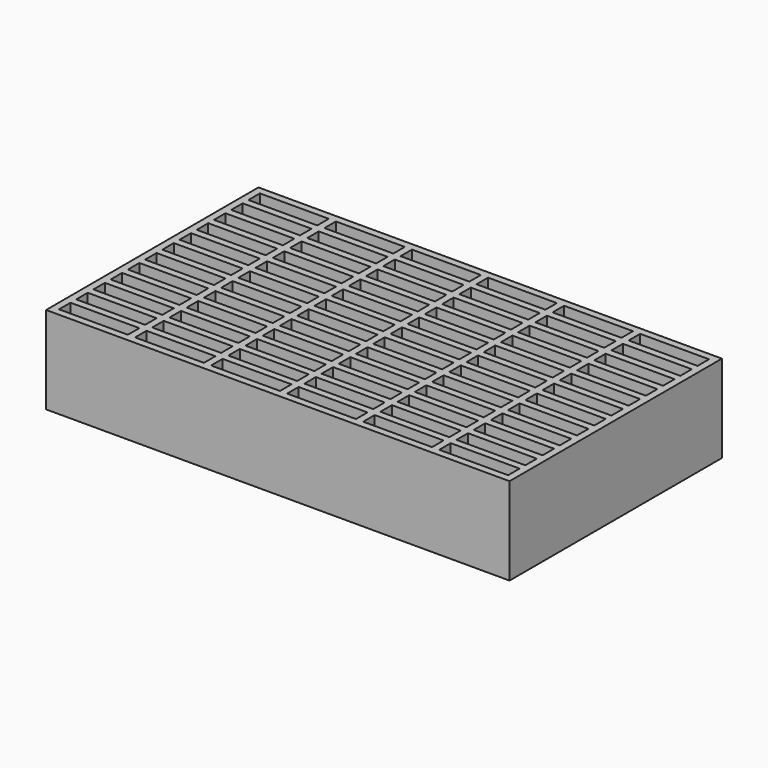
from build123d import *

# Parameters (mm, degrees)
F0_W     = 205.105
F0_H     = 117.475
F1_DEPTH = 38.735
F2_W     = 30.48
F2_H     = 6.35
F3_DEPTH = 35.56


with BuildPart() as f1:
    # F0 (on Top) → F1 (new body)
    with BuildSketch(Plane.XY):
        Rectangle(F0_W, F0_H)
    extrude(amount=-F1_DEPTH)

    # F2 (on face) → F3 (cut)
    with BuildSketch(Plane.XY):
        with Locations((-84.1375, 52.3875)):
            Rectangle(F2_W, F2_H)
        with Locations((-84.1375, 42.8625)):
            Rectangle(F2_W, F2_H)
        with Locations((-84.1375, 33.3375)):
            Rectangle(F2_W, F2_H)
        with Locations((-84.1375, 23.8125)):
            Rectangle(F2_W, F2_H)
        with Locations((-84.1375, 14.2875)):
            Rectangle(F2_W, F2_H)
        with Locations((-84.1375, 4.7625)):
            Rectangle(F2_W, F2_H)
        with Locations((-84.1375, -4.7625)):
            Rectangle(F2_W, F2_H)
        with Locations((-84.1375, -14.2875)):
            Rectangle(F2_W, F2_H)
        with Locations((-50.4825, 52.3875)):
            Rectangle(F2_W, F2_H)
        with Locations((-50.4825, 42.8625)):
            Rectangle(F2_W, F2_H)
        with Locations((-50.4825, 33.3375)):
            Rectangle(F2_W, F2_H)
        with Locations((-50.4825, 23.8125)):
            Rectangle(F2_W, F2_H)
        with Locations((-50.4825, 14.2875)):
            Rectangle(F2_W, F2_H)
        with Locations((-50.4825, 4.7625)):
            Rectangle(F2_W, F2_H)
        with Locations((-50.4825, -4.7625)):
            Rectangle(F2_W, F2_H)
        with Locations((-50.4825, -14.2875)):
            Rectangle(F2_W, F2_H)
        with Locations((-16.8275, 52.3875)):
            Rectangle(F2_W, F2_H)
        with Locations((-16.8275, 42.8625)):
            Rectangle(F2_W, F2_H)
        with Locations((-16.8275, 33.3375)):
            Rectangle(F2_W, F2_H)
        with Locations((-16.8275, 23.8125)):
            Rectangle(F2_W, F2_H)
        with Locations((-16.8275, 14.2875)):
            Rectangle(F2_W, F2_H)
        with Locations((-16.8275, 4.7625)):
            Rectangle(F2_W, F2_H)
        with Locations((-16.8275, -4.7625)):
            Rectangle(F2_W, F2_H)
        with Locations((-16.8275, -14.2875)):
            Rectangle(F2_W, F2_H)
        with Locations((16.8275, 52.3875)):
            Rectangle(F2_W, F2_H)
        with Locations((16.8275, 42.8625)):
            Rectangle(F2_W, F2_H)
        with Locations((16.8275, 33.3375)):
            Rectangle(F2_W, F2_H)
        with Locations((16.8275, 23.8125)):
            Rectangle(F2_W, F2_H)
        with Locations((16.8275, 14.2875)):
            Rectangle(F2_W, F2_H)
        with Locations((16.8275, 4.7625)):
            Rectangle(F2_W, F2_H)
        with Locations((16.8275, -4.7625)):
            Rectangle(F2_W, F2_H)
        with Locations((16.8275, -14.2875)):
            Rectangle(F2_W, F2_H)
        with Locations((50.4825, 52.3875)):
            Rectangle(F2_W, F2_H)
        with Locations((50.4825, 42.8625)):
            Rectangle(F2_W, F2_H)
        with Locations((50.4825, 33.3375)):
            Rectangle(F2_W, F2_H)
        with Locations((50.4825, 23.8125)):
            Rectangle(F2_W, F2_H)
        with Locations((50.4825, 14.2875)):
            Rectangle(F2_W, F2_H)
        with Locations((50.4825, 4.7625)):
            Rectangle(F2_W, F2_H)
        with Locations((50.4825, -4.7625)):
            Rectangle(F2_W, F2_H)
        with Locations((50.4825, -14.2875)):
            Rectangle(F2_W, F2_H)
        with Locations((84.1375, 52.3875)):
            Rectangle(F2_W, F2_H)
        with Locations((84.1375, 42.8625)):
            Rectangle(F2_W, F2_H)
        with Locations((84.1375, 33.3375)):
            Rectangle(F2_W, F2_H)
        with Locations((84.1375, 23.8125)):
            Rectangle(F2_W, F2_H)
        with Locations((84.1375, 14.2875)):
            Rectangle(F2_W, F2_H)
        with Locations((84.1375, 4.7625)):
            Rectangle(F2_W, F2_H)
        with Locations((84.1375, -4.7625)):
            Rectangle(F2_W, F2_H)
        with Locations((84.1375, -14.2875)):
            Rectangle(F2_W, F2_H)
        with Locations((-84.1375, -23.8125)):
            Rectangle(F2_W, F2_H)
        with Locations((-50.4825, -23.8125)):
            Rectangle(F2_W, F2_H)
        with Locations((-16.8275, -23.8125)):
            Rectangle(F2_W, F2_H)
        with Locations((16.8275, -23.8125)):
            Rectangle(F2_W, F2_H)
        with Locations((50.4825, -23.8125)):
            Rectangle(F2_W, F2_H)
        with Locations((84.1375, -23.8125)):
            Rectangle(F2_W, F2_H)
        with Locations((-84.1375, -33.3375)):
            Rectangle(F2_W, F2_H)
        with Locations((-50.4825, -33.3375)):
            Rectangle(F2_W, F2_H)
        with Locations((-16.8275, -33.3375)):
            Rectangle(F2_W, F2_H)
        with Locations((16.8275, -33.3375)):
            Rectangle(F2_W, F2_H)
        with Locations((50.4825, -33.3375)):
            Rectangle(F2_W, F2_H)
        with Locations((84.1375, -33.3375)):
            Rectangle(F2_W, F2_H)
        with Locations((-84.1375, -42.8625)):
            Rectangle(F2_W, F2_H)
        with Locations((-84.1375, -52.3875)):
            Rectangle(F2_W, F2_H)
        with Locations((-50.4825, -42.8625)):
            Rectangle(F2_W, F2_H)
        with Locations((-50.4825, -52.3875)):
            Rectangle(F2_W, F2_H)
        with Locations((-16.8275, -42.8625)):
            Rectangle(F2_W, F2_H)
        with Locations((-16.8275, -52.3875)):
            Rectangle(F2_W, F2_H)
        with Locations((16.8275, -42.8625)):
            Rectangle(F2_W, F2_H)
        with Locations((16.8275, -52.3875)):
            Rectangle(F2_W, F2_H)
        with Locations((50.4825, -42.8625)):
            Rectangle(F2_W, F2_H)
        with Locations((50.4825, -52.3875)):
            Rectangle(F2_W, F2_H)
        with Locations((84.1375, -42.8625)):
            Rectangle(F2_W, F2_H)
        with Locations((84.1375, -52.3875)):
            Rectangle(F2_W, F2_H)
    extrude(amount=-F3_DEPTH, mode=Mode.SUBTRACT)


solid = f1.part
